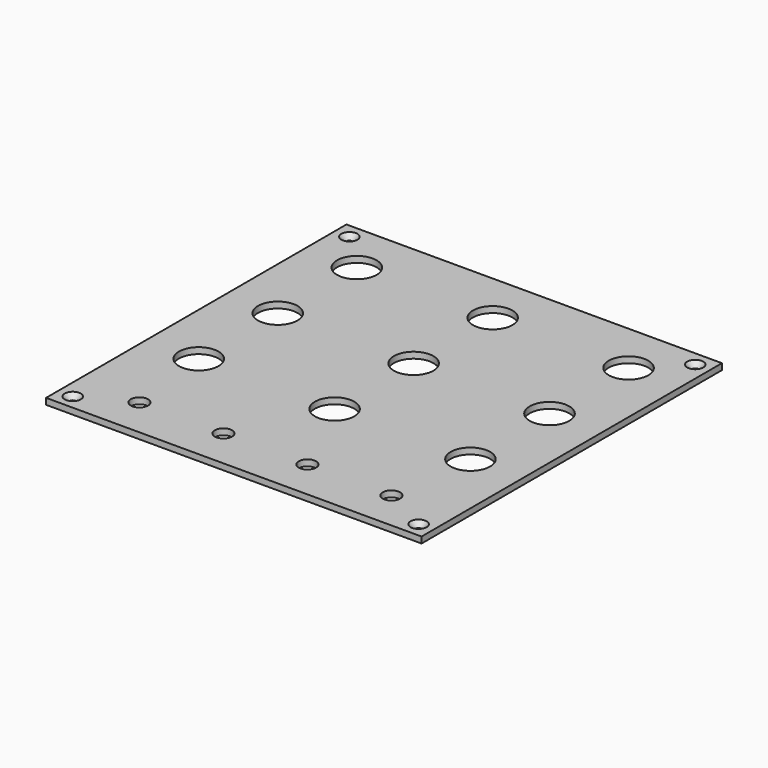
from build123d import *

# Parameters (mm, degrees)
SKETCH_W        = 152
SKETCH_H        = 152
PAD_DEPTH       = 2.5
SKETCH001_R     = 8
SKETCH001_R_2   = 3.5
POCKET_DEPTH    = 5
SKETCH002_R     = 1.25
POCKET001_DEPTH = 5
CHAMFER_SIZE    = 2


with BuildPart() as part:
    # Sketch → Pad (new body)
    with BuildSketch(Plane.XY):
        Rectangle(SKETCH_W, SKETCH_H)
    extrude(amount=PAD_DEPTH)

    # Sketch001 → Pocket (cut)
    with BuildSketch(Plane.XY.offset(2.5)):
        with Locations((-55, 55)):
            Circle(SKETCH001_R)
        with Locations((-51, -60)):
            Circle(SKETCH001_R_2)
        with Locations((-55, 15)):
            Circle(SKETCH001_R)
        with Locations((0, 15)):
            Circle(SKETCH001_R)
        with Locations((0, -25)):
            Circle(SKETCH001_R)
        with Locations((0, 55)):
            Circle(SKETCH001_R)
        with Locations((-17, -60)):
            Circle(SKETCH001_R_2)
        with Locations((17, -60)):
            Circle(SKETCH001_R_2)
        with Locations((51, -60)):
            Circle(SKETCH001_R_2)
        with Locations((55, 55)):
            Circle(SKETCH001_R)
        with Locations((-55, -25)):
            Circle(SKETCH001_R)
        with Locations((55, -25)):
            Circle(SKETCH001_R)
        with Locations((55, 15)):
            Circle(SKETCH001_R)
    extrude(amount=-POCKET_DEPTH, mode=Mode.SUBTRACT)

    # Sketch002 → Pocket001 (cut)
    with BuildSketch(Plane.XY.offset(2.5)):
        with Locations((-70, 70)):
            Circle(SKETCH002_R)
        with Locations((70, 70)):
            Circle(SKETCH002_R)
        with Locations((70, -70)):
            Circle(SKETCH002_R)
        with Locations((-70, -70)):
            Circle(SKETCH002_R)
    extrude(amount=-POCKET001_DEPTH, mode=Mode.SUBTRACT)

    # Chamfer
    chamfer_edges = [part.edges().sort_by_distance(p)[0] for p in [
        (-71.25, 70, 2.5),
        (68.75, 70, 2.5),
        (68.75, -70, 2.5),
        (-71.25, -70, 2.5),
    ]]
    chamfer(chamfer_edges, length=CHAMFER_SIZE)


solid = part.part
